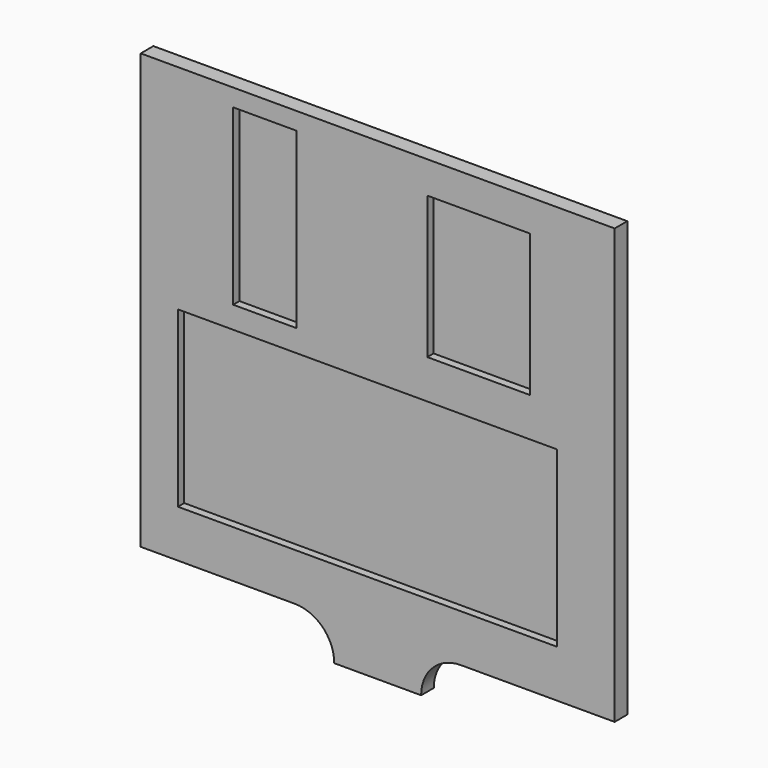
from build123d import *

# Parameters (mm, degrees)
F1_DEPTH = 12.7
F2_W     = 304.8
F2_H     = 139.7
F2_W_2   = 50.8
F2_W_3   = 82.55
F2_H_2   = 114.3
F3_DEPTH = 6.35


with BuildPart() as f1:
    # F0 (on Front) → F1 (new body)
    with BuildSketch(Plane.XZ):
        with BuildLine():
            Line((305.833439, 76.903448), (-75.166561, 76.903448))
            Line((-75.166561, 76.903448), (-75.166561, -272.346552))
            Line((-75.166561, -272.346552), (48.658439, -272.346552))
            ThreePointArc((48.658439, -272.346552), (71.10908, -281.645912), (80.408439, -304.096552))
            Line((80.408439, -304.096552), (115.333439, -304.096552))
            Line((115.333439, -304.096552), (150.258439, -304.096552))
            ThreePointArc((150.258439, -304.096552), (159.557799, -281.645912), (182.008439, -272.346552))
            Line((182.008439, -272.346552), (305.833439, -272.346552))
            Line((305.833439, -272.346552), (305.833439, 76.903448))
        make_face()
    extrude(amount=F1_DEPTH)

    # F2 (on face) → F3 (cut)
    with BuildSketch(Plane.XZ.offset(12.7)):
        with Locations((107.108014, -164.375434)):
            Rectangle(F2_W, F2_H)
        with Locations((24.554247, -6.968641)):
            Rectangle(F2_W_2, F2_H)
        with Locations((196.479545, -5.980022)):
            Rectangle(F2_W_3, F2_H_2)
    extrude(amount=-F3_DEPTH, mode=Mode.SUBTRACT)


solid = f1.part
